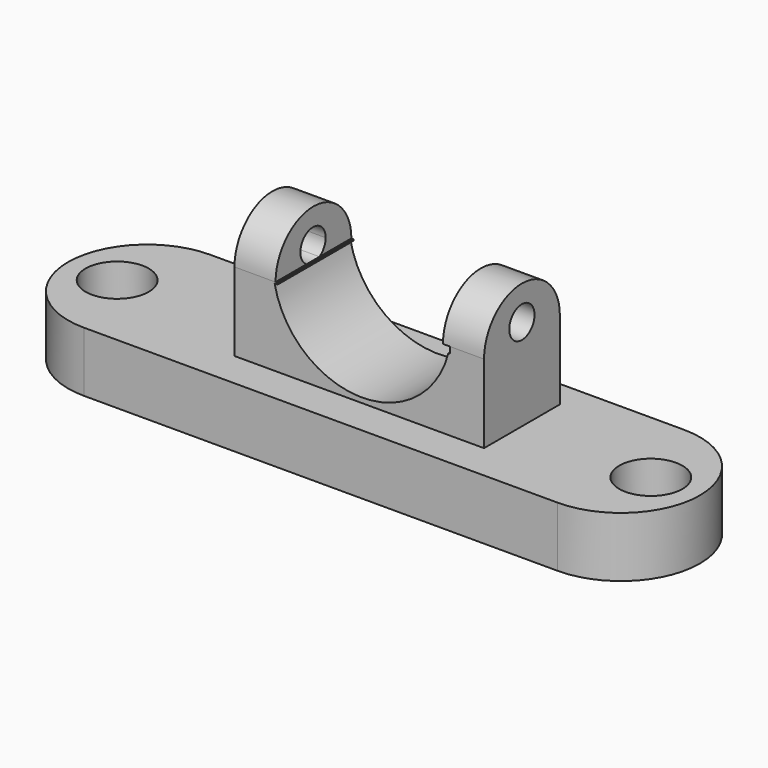
from build123d import *

# Parameters (mm, degrees)
F0_W      = 150
F0_H      = 19
F1_DEPTH  = 50
F3_DEPTH  = 19
F4_W      = 79
F4_H      = 30
F5_DEPTH  = 35.4
F8_DEPTH  = 30
F9_W      = 54.530326277
F9_H      = 30
F10_DEPTH = 2
F12_DEPTH = 13
F14_DEPTH = 13
F15_R     = 5
F16_DEPTH = 13
F18_DEPTH = 13
F19_R     = 10
F20_DEPTH = 19
F21_DEPTH = 19


with BuildPart() as f1:
    # F0 (on Front) → F1 (new body)
    with BuildSketch(Plane.XZ):
        with Locations((0, 1.0748035961)):
            Rectangle(F0_W, F0_H)
    extrude(amount=F1_DEPTH)

    # F2 (on face) → F3 (join)
    with BuildSketch(Plane.XY.offset(10.5748035961)):
        with BuildLine():
            Line((-75, -50), (-75, 0))
            ThreePointArc((-75, 0), (-100, -25), (-75, -50))
        make_face()
        with BuildLine():
            ThreePointArc((75, -50), (100, -25), (75, 0))
            Line((75, 0), (75, -50))
        make_face()
    extrude(amount=-F3_DEPTH)

    # F4 (on Top) → F5 (join)
    with BuildSketch(Plane.XY):
        with Locations((3.0394736677, -23.589033746)):
            Rectangle(F4_W, F4_H)
    extrude(amount=F5_DEPTH)

    # F7 (on face) → F8 (cut)
    with BuildSketch(Plane.XZ.offset(38.589033746)):
        with BuildLine():
            Line((31.6433943808, 35.2142751217), (-23.7523913383, 34.8830260336))
            ThreePointArc((-23.7523913383, 34.8830260336), (4.0825457385, 12.1303321123), (31.6433943808, 35.2142751217))
        make_face()
    extrude(amount=-F8_DEPTH, mode=Mode.SUBTRACT)

    # F9 (on face) → F10 (cut)
    with BuildSketch(Plane.XY.offset(35.4)):
        with Locations((4.4306721538, -23.589033746)):
            Rectangle(F9_W, F9_H)
    extrude(amount=-F10_DEPTH, mode=Mode.SUBTRACT)

    # F11 (on face) → F12 (join)
    with BuildSketch(Plane(origin=(-36.4605263323, 0, 0), x_dir=(0, -1, 0), z_dir=(-1, 0, 0))):
        with BuildLine():
            Line((8.589033746, 35.4), (38.589033746, 35.4))
            ThreePointArc((38.589033746, 35.4), (23.589033746, 50.4), (8.589033746, 35.4))
        make_face()
    extrude(amount=-F12_DEPTH)

    # F13 (on face) → F14 (join)
    with BuildSketch(Plane.YZ.offset(42.5394736677)):
        with BuildLine():
            Line((-38.589033746, 35.4), (-8.589033746, 35.4))
            ThreePointArc((-8.589033746, 35.4), (-23.589033746, 50.4), (-38.589033746, 35.4))
        make_face()
    extrude(amount=-F14_DEPTH)

    # F15 (on face) → F16 (cut)
    with BuildSketch(Plane.YZ.offset(42.5394736677)):
        with Locations((-23.6123930663, 39.6284162998)):
            Circle(F15_R)
    extrude(amount=-F16_DEPTH, mode=Mode.SUBTRACT)

    # F17 (on face) → F18 (cut)
    with BuildSketch(Plane.YZ.offset(-23.4605263323)):
        with BuildLine():
            Line((-21.2145990318, 35.4), (-26.3218262607, 35.4))
            ThreePointArc((-26.3218262607, 35.4), (-23.7682126462, 34.6987274289), (-21.2145990318, 35.4))
        make_face()
        with BuildLine():
            ThreePointArc((-21.2145990318, 35.4), (-19.4226362707, 37.2256795192), (-18.7682126462, 39.6987274289))
            ThreePointArc((-18.7682126462, 39.6987274289), (-26.241260556, 44.0443038045), (-26.3218262607, 35.4))
            Line((-26.3218262607, 35.4), (-21.2145990318, 35.4))
        make_face()
    extrude(amount=-F18_DEPTH, mode=Mode.SUBTRACT)

    # F19 (on face) → F20 (cut)
    with BuildSketch(Plane.XY.offset(10.5748035961)):
        with Locations((-84.4740969445, -25.0065810978)):
            Circle(F19_R)
    extrude(amount=-F20_DEPTH, mode=Mode.SUBTRACT)

    # F19 (on face) → F21 (cut)
    with BuildSketch(Plane.XY.offset(10.5748035961)):
        with Locations((-84.4740969445, -25.0065810978)):
            Circle(F19_R)
        with Locations((84.4793568792, -25.0065810978)):
            Circle(F19_R)
    extrude(amount=-F21_DEPTH, mode=Mode.SUBTRACT)


solid = f1.part
